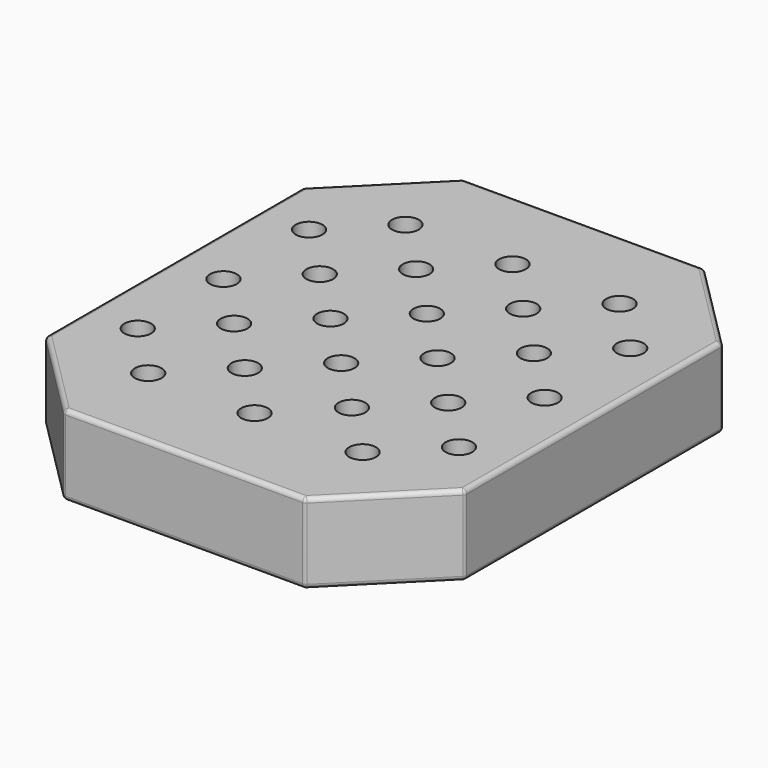
from build123d import *

# Parameters (mm, degrees)
SKETCH_W     = 94
SKETCH_H     = 112
SKETCH_R     = 3
PAD_DEPTH    = 18
POCKET_DEPTH = 18.001
FILLET_R     = 1
FILLET001_R  = 1
FILLET002_R  = 1
FILLET003_R  = 1


with BuildPart() as part:
    # Sketch → Pad (new body)
    with BuildSketch(Plane.XY):
        with Locations((-47, 56)):
            Rectangle(SKETCH_W, SKETCH_H)
        with Locations((-47, 19.7281)):
            Circle(SKETCH_R, mode=Mode.SUBTRACT)
        with Locations((-23, 68)):
            Circle(SKETCH_R, mode=Mode.SUBTRACT)
        with Locations((-23, 44)):
            Circle(SKETCH_R, mode=Mode.SUBTRACT)
        with Locations((-23, 20)):
            Circle(SKETCH_R, mode=Mode.SUBTRACT)
        with Locations((-23, 92)):
            Circle(SKETCH_R, mode=Mode.SUBTRACT)
        with Locations((-47, 44)):
            Circle(SKETCH_R, mode=Mode.SUBTRACT)
        with Locations((-47, 68)):
            Circle(SKETCH_R, mode=Mode.SUBTRACT)
        with Locations((-47, 92)):
            Circle(SKETCH_R, mode=Mode.SUBTRACT)
        with Locations((-71, 92)):
            Circle(SKETCH_R, mode=Mode.SUBTRACT)
        with Locations((-71, 68)):
            Circle(SKETCH_R, mode=Mode.SUBTRACT)
        with Locations((-59, 32)):
            Circle(SKETCH_R, mode=Mode.SUBTRACT)
        with Locations((-71, 19.92972)):
            Circle(SKETCH_R, mode=Mode.SUBTRACT)
        with Locations((-71, 44)):
            Circle(SKETCH_R, mode=Mode.SUBTRACT)
        with Locations((-59, 56)):
            Circle(SKETCH_R, mode=Mode.SUBTRACT)
        with Locations((-35, 56)):
            Circle(SKETCH_R, mode=Mode.SUBTRACT)
        with Locations((-35, 32)):
            Circle(SKETCH_R, mode=Mode.SUBTRACT)
        with Locations((-35, 80)):
            Circle(SKETCH_R, mode=Mode.SUBTRACT)
        with Locations((-59, 80)):
            Circle(SKETCH_R, mode=Mode.SUBTRACT)
        with Locations((-83, 32)):
            Circle(SKETCH_R, mode=Mode.SUBTRACT)
        with Locations((-83, 56)):
            Circle(SKETCH_R, mode=Mode.SUBTRACT)
        with Locations((-83, 80)):
            Circle(SKETCH_R, mode=Mode.SUBTRACT)
        with Locations((-11, 80)):
            Circle(SKETCH_R, mode=Mode.SUBTRACT)
        with Locations((-11, 56)):
            Circle(SKETCH_R, mode=Mode.SUBTRACT)
        with Locations((-11, 32)):
            Circle(SKETCH_R, mode=Mode.SUBTRACT)
    extrude(amount=PAD_DEPTH)

    # Sketch001 (on Face30 of Pad) → Pocket (cut, through all)
    with BuildSketch(Plane.XY.offset(18)):
        Polygon((0, 0), (0, 20), (-20, 0), align=None)
        Polygon((0, 112), (0, 92), (-20, 112), align=None)
        Polygon((-74, 112), (-94, 112), (-94, 92), align=None)
        Polygon((-94, 20), (-94, 0), (-74, 0), align=None)
    extrude(amount=-POCKET_DEPTH, mode=Mode.SUBTRACT)

    # Fillet
    fillet_edges = [part.edges().sort_by_distance(p)[0] for p in [
        (-84, 102, 18),
        (-47, 112, 18),
        (-10, 102, 18),
        (0, 56, 18),
        (-10, 10, 18),
        (-47, 0, 18),
        (-84, 10, 18),
        (-94, 56, 18),
    ]]
    fillet(fillet_edges, radius=FILLET_R)

    # Fillet001
    fillet001_edges = [part.edges().sort_by_distance(p)[0] for p in [
        (0, 20, 8.5),
        (-20, 0, 8.5),
        (0, 92, 8.5),
        (-20, 112, 8.5),
    ]]
    fillet(fillet001_edges, radius=FILLET001_R)

    # Fillet002
    fillet002_edges = [part.edges().sort_by_distance(p)[0] for p in [
        (-74, 112, 8.5),
        (-94, 92, 8.5),
        (-94, 20, 8.5),
        (-74, 0, 8.5),
    ]]
    fillet(fillet002_edges, radius=FILLET002_R)

    # Fillet003
    fillet003_edges = [part.edges().sort_by_distance(p)[0] for p in [
        (-47, 112, 0),
        (-84, 102, 0),
        (-94, 56, 0),
        (-84, 10, 0),
        (-47, 0, 0),
        (-10, 10, 0),
        (0, 56, 0),
        (-10, 102, 0),
    ]]
    fillet(fillet003_edges, radius=FILLET003_R)


solid = part.part
